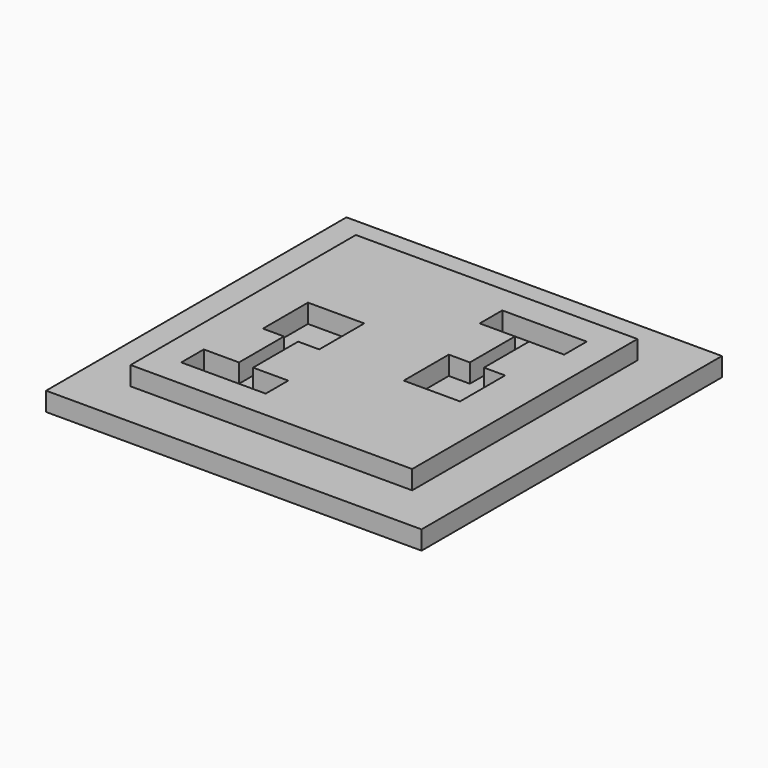
from build123d import *

# Parameters (mm, degrees)
F0_W     = 40
F0_H     = 40
F1_DEPTH = 2
F2_W     = 30
F2_H     = 30
F3_DEPTH = 2


with BuildPart() as f1:
    # F0 (on Top) → F1 (new body)
    with BuildSketch(Plane.XY):
        Rectangle(F0_W, F0_H)
    extrude(amount=F1_DEPTH)

    # F2 (on face) → F3 (join)
    with BuildSketch(Plane.XY.offset(2)):
        Rectangle(F2_W, F2_H)
        Polygon((-8.25, -9), (-8.25, -3), (-10.5, -3), (-10.5, 3), (-4.5, 3), (-4.5, -3), (-6.75, -3), (-6.75, -9), (-3, -9), (-3, -12), (-12, -12), (-12, -9), align=None, mode=Mode.SUBTRACT)
        Polygon((10.5, -3), (8.25, -3), (6.75, -3), (4.5, -3), (4.5, 3), (6.75, 3), (6.75, 9), (3, 9), (3, 12), (12, 12), (12, 9), (8.25, 9), (8.25, 3), (10.5, 3), align=None, mode=Mode.SUBTRACT)
    extrude(amount=F3_DEPTH)


solid = f1.part
